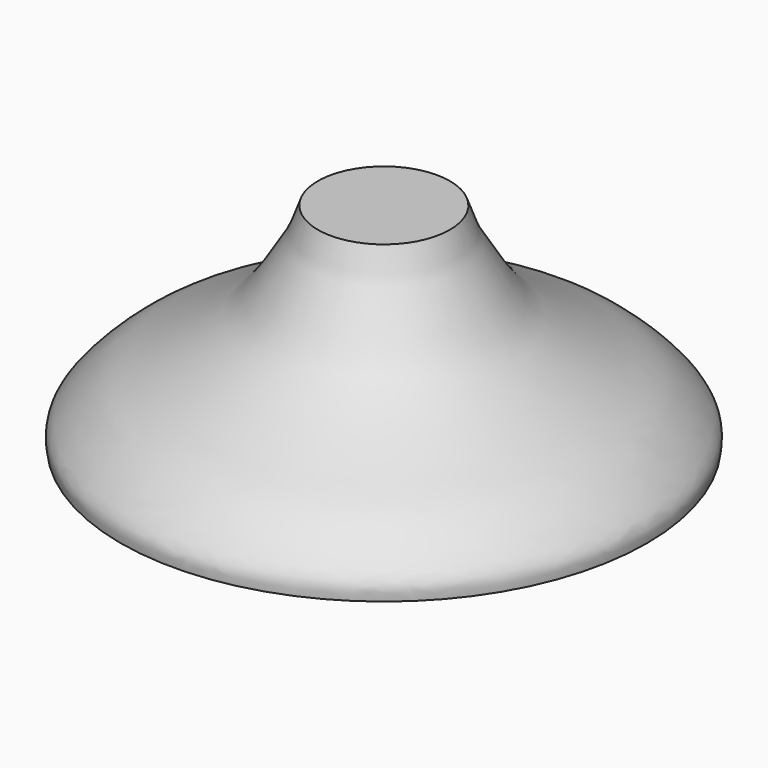
from build123d import *


with BuildPart() as f1:
    # F0 (on Front) → F1 (revolve)
    with BuildSketch(Plane.XZ):
        with BuildLine():
            Line((0, 66.2088096142), (0, -76.2510821223))
            Line((0, -76.2510821223), (177.0439893007, -76.2510821223))
            add(Edge.make_bspline(
                [(44.4089174271, 66.2088096142), (46.6912017454, 59.5253192693), (51.1908848684, 46.3483507092), (61.6294293276, 30.313229613), (76.942321906, 5.5591062308), (95.2871352401, -6.1965063299), (109.9913413365, -16.3658776677), (134.3007785871, -29.394725574), (151.8931780657, -38.3478591604), (167.8921465966, -53.4893646554), (178.6216559361, -66.0213549295), (177.5241665612, -73.1375711506), (177.0439893007, -76.2510821223)],
                knots=[0, 0, 0, 0, 0.1017720091, 0.2006506324, 0.3208580522, 0.4243154085, 0.5195839367, 0.6363418019, 0.7375159207, 0.8427531061, 0.9312008075, 1, 1, 1, 1], degree=3))
            Line((44.4089174271, 66.2088096142), (0, 66.2088096142))
        make_face()
    revolve(axis=Axis((0, 0, -5.0211362541), (0, 0, 1)))


solid = f1.part
